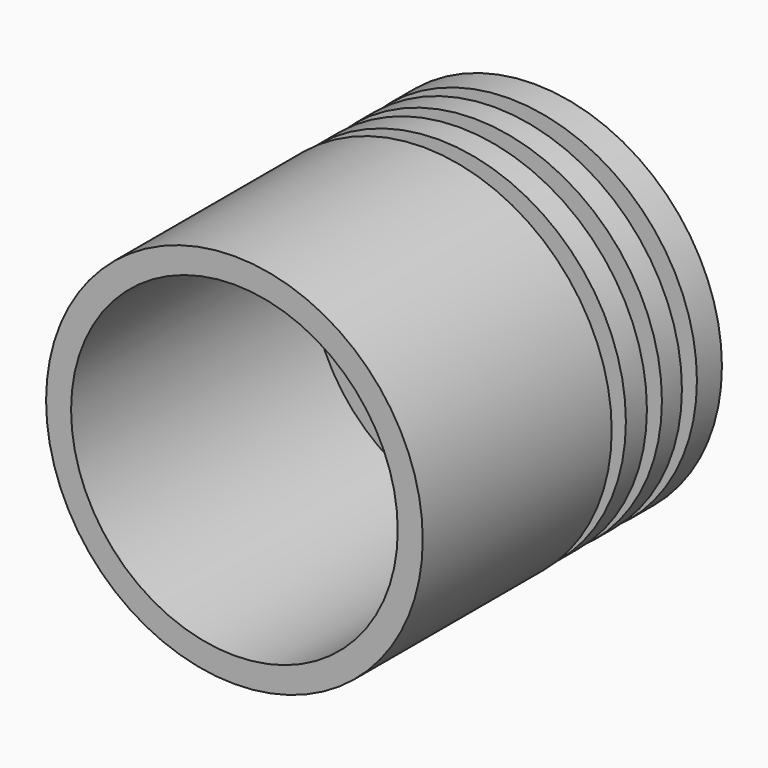
from build123d import *

# Parameters (mm, degrees)
F0_W     = 13.25
F0_H     = 1.5
F2_DEPTH = 22.25


with BuildPart() as f1:
    # F0 (on Top) → F1 (revolve)
    with BuildSketch(Plane.XY):
        Polygon((-17.1468311846, 4.5190741712), (-17.1468311846, 16.6790741712), (-20.6468311846, 16.6790741712), (-20.6468311846, 17.3790741712), (-21.6468311846, 17.3790741712), (-21.6468311846, 16.6790741712), (-25.8468311846, 16.6790741712), (-32.2133810192, 16.6790741712), (-32.2133810192, 1.5332341712), (-19.1468311846, 1.5332341712), (-19.1468311846, -0.2167658288), (-17.1468311846, -0.2167658288), align=None)
        Polygon((-17.1468311846, 18.6790741712), (-18.9633810192, 18.6790741712), (-32.2133810192, 18.6790741712), (-32.2133810192, 16.6790741712), (-25.8468311846, 16.6790741712), (-21.6468311846, 16.6790741712), (-21.6468311846, 17.3790741712), (-20.6468311846, 17.3790741712), (-20.6468311846, 16.6790741712), (-17.1468311846, 16.6790741712), align=None)
        Polygon((-17.2133810192, 20.1790741712), (-17.2133810192, 22.2832329303), (-18.9633810192, 22.2832329303), (-32.2133810192, 22.2832329303), (-32.2133810192, 20.1790741712), (-18.9633810192, 20.1790741712), align=None)
        with Locations((-25.5883810192, 19.4290741712)):
            Rectangle(F0_W, F0_H)
        with Locations((-25.5883810192, 23.0332329303)):
            Rectangle(F0_W, F0_H)
        Polygon((-32.2133810192, 23.7832329303), (-18.9633810192, 23.7832329303), (-17.2133810192, 23.7832329303), (-17.2133810192, 25.7832329303), (-18.9633810192, 25.7832329303), (-32.2133810192, 25.7832329303), align=None)
        with Locations((-25.5883810192, 26.5332329303)):
            Rectangle(F0_W, F0_H)
        Polygon((-32.2133810192, 29.7832329303), (-32.2133810192, 27.2832329303), (-18.9633810192, 27.2832329303), (-17.2133810192, 27.2832329303), (-17.2133810192, 29.7832329303), align=None)
    revolve(axis=Axis((-32.2133810192, 15.6582335507, 0), (0, 1, 0)))

    # F2 (cut): a face of the model
    f2_faces = [f1.faces().sort_by_distance(p)[0] for p in [
        (-32.2133810192, 1.5332341712, 0),
    ]]
    extrude(f2_faces, amount=-F2_DEPTH, mode=Mode.SUBTRACT)


solid = f1.part
